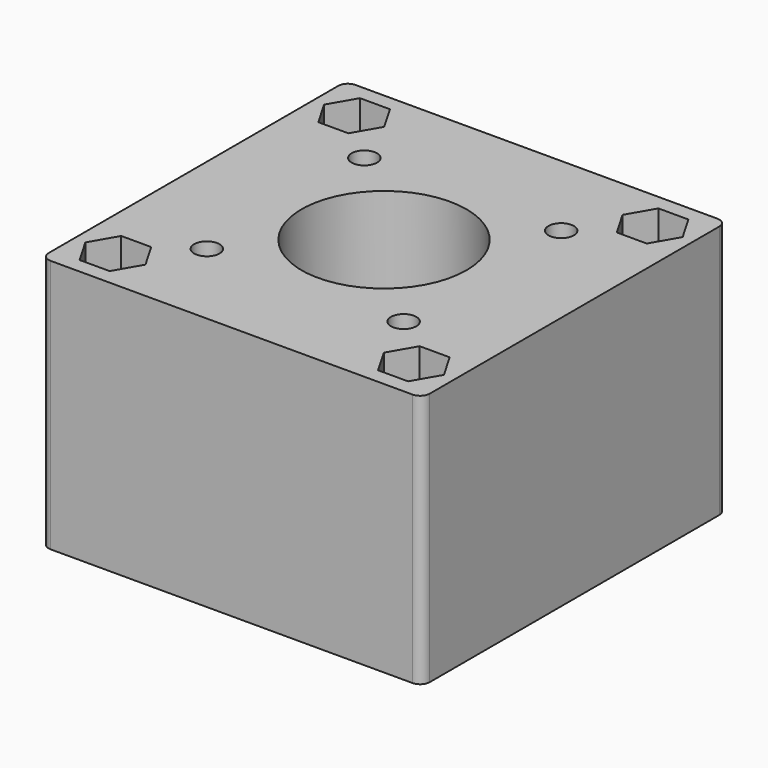
from build123d import *

# Parameters (mm, degrees)
F0_W      = 60
F0_H      = 60
F1_DEPTH  = 40
F2_R      = 2.75
F3_DEPTH  = 40
F4_R      = 2
F5_DEPTH  = 40
F6_R      = 13
F7_DEPTH  = 40
F8_R      = 1.5
F9_R      = 2.75
F10_DEPTH = 38
F11_R     = 4
F11_R_2   = 2
F12_DEPTH = 18
F13_R     = 1.9


with BuildPart() as f1:
    # F0 (on Top) → F1 (new body)
    with BuildSketch(Plane.XY):
        Rectangle(F0_W, F0_H)
    extrude(amount=F1_DEPTH)

    # F2 (on face) → F3 (cut, through all)
    with BuildSketch(Plane.XY.offset(40)):
        with Locations((-23.5, 23.5)):
            Circle(F2_R)
        with Locations((23.5, 23.5)):
            Circle(F2_R)
        with Locations((23.5, -23.5)):
            Circle(F2_R)
        with Locations((-23.5, -23.5)):
            Circle(F2_R)
    extrude(amount=-F3_DEPTH, mode=Mode.SUBTRACT)

    # F4 (on face) → F5 (cut, through all)
    with BuildSketch(Plane.XY.offset(40)):
        with Locations((-15.5, 15.5)):
            Circle(F4_R)
        with Locations((15.5, 15.5)):
            Circle(F4_R)
        with Locations((15.5, -15.5)):
            Circle(F4_R)
        with Locations((-15.5, -15.5)):
            Circle(F4_R)
    extrude(amount=-F5_DEPTH, mode=Mode.SUBTRACT)

    # F6 (on face) → F7 (cut, through all)
    with BuildSketch(Plane.XY.offset(40)):
        Circle(F6_R)
    extrude(amount=-F7_DEPTH, mode=Mode.SUBTRACT)

    # F8
    f8_edges = [f1.edges().sort_by_distance(p)[0] for p in [
        (30, -30, 20),
        (-30, -30, 20),
        (-30, 30, 20),
        (30, 30, 20),
    ]]
    fillet(f8_edges, radius=F8_R)

    # F9 (on face) → F10 (cut)
    with BuildSketch(Plane.XY.offset(40)):
        Polygon((21.132864, 19.4), (25.867136, 19.4), (28.234272, 23.5), (25.867136, 27.6), (21.132864, 27.6), (18.765728, 23.5), align=None)
        with Locations((23.5, 23.5)):
            Circle(F9_R, mode=Mode.SUBTRACT)
        Polygon((-25.867136, 19.4), (-21.132864, 19.4), (-18.765728, 23.5), (-21.132864, 27.6), (-25.867136, 27.6), (-28.234272, 23.5), align=None)
        Polygon((25.867136, -19.4), (21.132864, -19.4), (18.765728, -23.5), (21.132864, -27.6), (25.867136, -27.6), (28.234272, -23.5), align=None)
        Polygon((-21.132864, -19.4), (-25.867136, -19.4), (-28.234272, -23.5), (-25.867136, -27.6), (-21.132864, -27.6), (-18.765728, -23.5), align=None)
    extrude(amount=-F10_DEPTH, mode=Mode.SUBTRACT)

    # F11 (on face) → F12 (cut)
    with BuildSketch(Plane(origin=(0, 0, 0), x_dir=(1, 0, 0), z_dir=(0, 0, -1))):
        with Locations((15.5, 15.5)):
            Circle(F11_R)
        with Locations((15.5, 15.5)):
            Circle(F11_R_2, mode=Mode.SUBTRACT)
        with Locations((-15.5, 15.5)):
            Circle(F11_R)
        with Locations((-15.5, -15.5)):
            Circle(F11_R)
        with Locations((15.5, -15.5)):
            Circle(F11_R)
    extrude(amount=-F12_DEPTH, mode=Mode.SUBTRACT)

    # F13
    f13_edges = [f1.edges().sort_by_distance(p)[0] for p in [
        (11.5, 15.5, 18),
        (-19.5, 15.5, 18),
        (11.5, -15.5, 18),
        (-19.5, -15.5, 18),
    ]]
    fillet(f13_edges, radius=F13_R)


solid = f1.part
